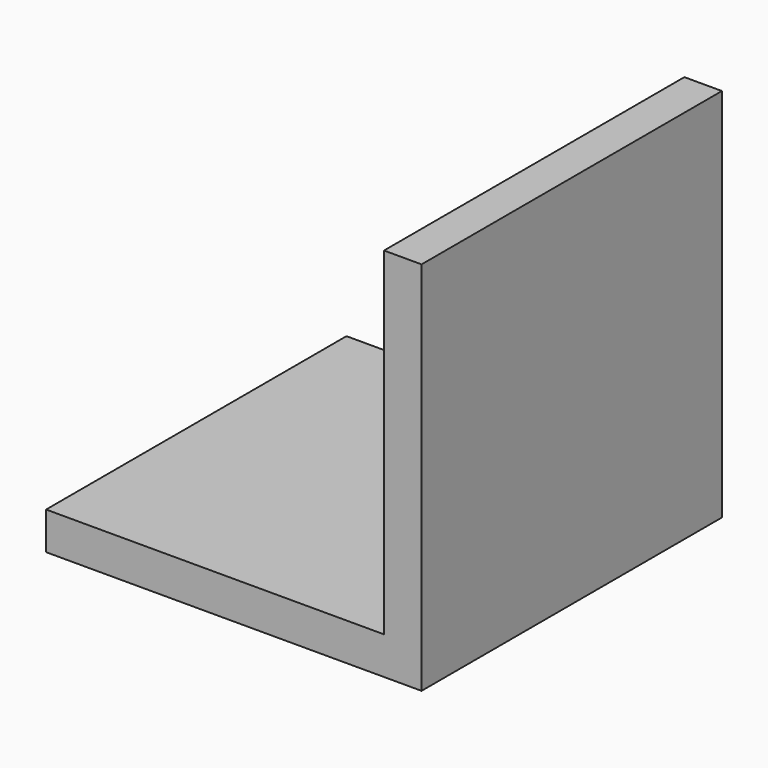
from build123d import *

# Parameters (mm, degrees)
BOX007_W                  = 50
BOX007_H                  = 58
BOX007_DEPTH              = 50
BOX006_W                  = 50
BOX006_H                  = 50
BOX006_DEPTH              = 50
CUT002009_PITCH_ANGLE     = -90
CUT002009_PLACEMENT_ANGLE = -180


with BuildPart() as cube002:
    # Box007 → Box007 (new body)
    with BuildSketch(Plane(origin=(5, -3, -5), x_dir=(1, 0, 0), z_dir=(0, 0, 1))):
        with Locations((25, 29)):
            Rectangle(BOX007_W, BOX007_H)
    extrude(amount=BOX007_DEPTH)


with BuildPart() as cut002009:
    # Box006 → Box006 (new body)
    with BuildSketch(Plane.XY):
        with Locations((25, 25)):
            Rectangle(BOX006_W, BOX006_H)
    extrude(amount=BOX006_DEPTH)

    # Cut002009: cut Cube002
    add(cube002.part, mode=Mode.SUBTRACT)


with BuildPart() as cut002009_1:
    # Cut002009 pitch: moved
    add(cut002009.part.rotate(Axis((0, 0, 0), (0, 1, 0)), CUT002009_PITCH_ANGLE))


with BuildPart() as cut002009_2:
    # Cut002009 placement: moved
    add(cut002009_1.part.moved(Location((590.68, 85, 6))).rotate(Axis((590.68, 85, 6), (0, 0, 1)), CUT002009_PLACEMENT_ANGLE))


solid = cut002009_2.part
